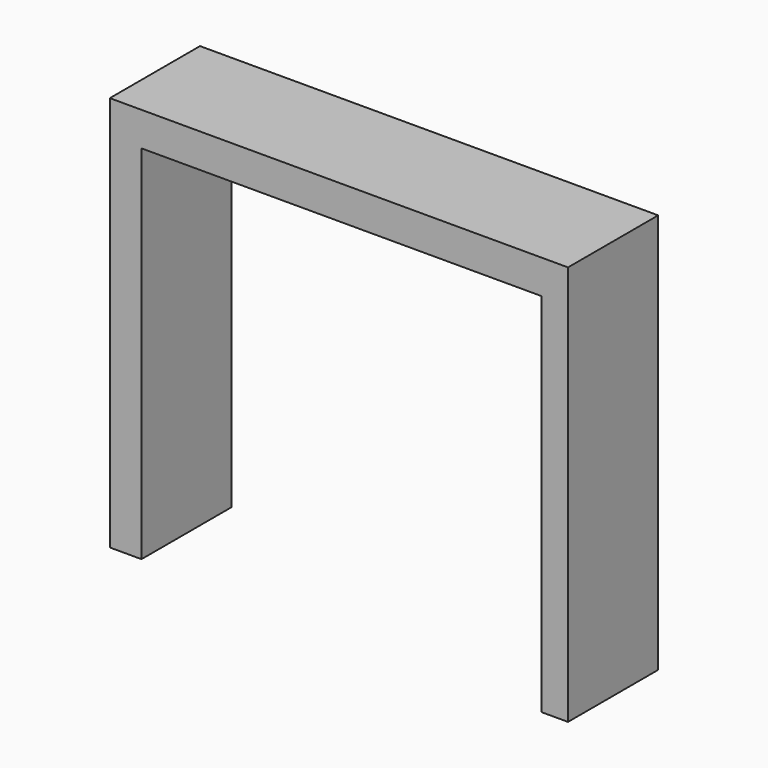
from build123d import *

# Parameters (mm, degrees)
F0_W     = 7.022947073
F0_H     = 80.2246108651
F0_W_2   = 5.8339834213
F0_H_2   = 81.2334045768
F1_DEPTH = 25


with BuildPart() as f1:
    # F0 (on Front) → F1 (new body)
    with BuildSketch(Plane.XZ):
        Polygon((51.7431199551, 42.9774299264), (-49.8843938112, 42.9774299264), (-49.8843938112, 35.4592576623), (-42.8614467382, 35.4592576623), (45.9091365337, 35.4592576623), (51.7431199551, 35.4592576623), align=None)
        with Locations((-46.3729202747, -4.6530477703)):
            Rectangle(F0_W, F0_H)
        with Locations((48.8261282444, -5.1574446261)):
            Rectangle(F0_W_2, F0_H_2)
    extrude(amount=F1_DEPTH)


solid = f1.part
